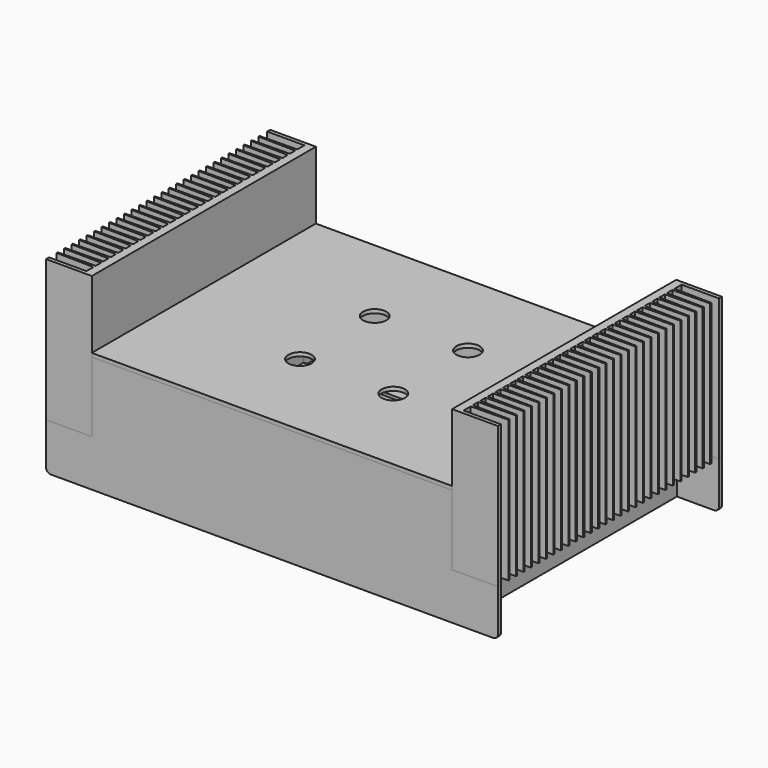
from build123d import *

# Parameters (mm, degrees)
F1_DEPTH  = 151.5
F3_ANGLE  = 90
F8_DEPTH  = 4
F10_W     = 386
F10_H     = 300
F11_DEPTH = 4
F12_W     = 386
F12_H     = 292
F12_R     = 2.25
F12_R_2   = 3.25
F13_DEPTH = 4
F14_W     = 292
F14_H     = 50
F15_DEPTH = 4
F17_DEPTH = 121
F20_R     = 12.5
F21_DEPTH = 4
F23_DEPTH = 354
F26_DEPTH = 354
F28_W     = 27.3
F28_H     = 31.4
F28_R     = 1.75
F28_W_2   = 22.4
F28_H_2   = 27.3
F29_DEPTH = 4
F31_DEPTH = 260
F34_DEPTH = 260
F37_DEPTH = 4


with BuildPart() as f1:
    # F0 (on Top) → F1 (new body)
    with BuildSketch(Plane.XY):
        Polygon((0.75, 49), (0, 49), (-0.75, 49), (-1.5, 9), (-8.5, 9), (-9.25, 49), (-10, 49), (-10.75, 49), (-11.5, 9), (-18.5, 9), (-19.25, 49), (-20, 49), (-20.75, 49), (-21.5, 9), (-28.5, 9), (-29.25, 49), (-30, 49), (-30.75, 49), (-31.5, 9), (-38.5, 9), (-39.25, 49), (-40, 49), (-40.75, 49), (-41.5, 9), (-48.5, 9), (-49.25, 49), (-50, 49), (-50.75, 49), (-51.5, 9), (-58.5, 9), (-59.25, 49), (-60, 49), (-60.75, 49), (-61.5, 9), (-68.5, 9), (-69.25, 49), (-70, 49), (-70.75, 49), (-71.5, 9), (-78.5, 9), (-79.25, 49), (-80, 49), (-80.75, 49), (-81.5, 9), (-88.5, 9), (-89.25, 49), (-90, 49), (-90.75, 49), (-91.5, 9), (-98.5, 9), (-99.25, 49), (-100, 49), (-100.75, 49), (-101.5, 9), (-108.5, 9), (-109.25, 49), (-110, 49), (-110.75, 49), (-111.5, 9), (-118.5, 9), (-119.25, 49), (-120, 49), (-120.75, 49), (-121.5, 9), (-128.5, 9), (-129.25, 49), (-130, 49), (-130.75, 49), (-131.5, 9), (-141, 9), (-141, 49), (-145, 49), (-145, 0), (155, 0), (155, 49), (151, 49), (151, 9), (141.5, 9), (140.75, 49), (140, 49), (139.25, 49), (138.5, 9), (131.5, 9), (130.75, 49), (130, 49), (129.25, 49), (128.5, 9), (121.5, 9), (120.75, 49), (120, 49), (119.25, 49), (118.5, 9), (111.5, 9), (110.75, 49), (110, 49), (109.25, 49), (108.5, 9), (101.5, 9), (100.75, 49), (100, 49), (99.25, 49), (98.5, 9), (91.5, 9), (90.75, 49), (90, 49), (89.25, 49), (88.5, 9), (81.5, 9), (80.75, 49), (80, 49), (79.25, 49), (78.5, 9), (71.5, 9), (70.75, 49), (70, 49), (69.25, 49), (68.5, 9), (61.5, 9), (60.75, 49), (60, 49), (59.25, 49), (58.5, 9), (51.5, 9), (50.75, 49), (50, 49), (49.25, 49), (48.5, 9), (41.5, 9), (40.75, 49), (40, 49), (39.25, 49), (38.5, 9), (31.5, 9), (30.75, 49), (30, 49), (29.25, 49), (28.5, 9), (21.5, 9), (20.75, 49), (20, 49), (19.25, 49), (18.5, 9), (11.5, 9), (10.75, 49), (10, 49), (9.25, 49), (8.5, 9), (1.5, 9), align=None)
    extrude(amount=F1_DEPTH)


with BuildPart() as f1_1:
    # F3: moved
    add(f1.part.rotate(Axis((0, 0, 36.7729254067), (0, 0, 1)), F3_ANGLE))


with BuildPart() as f1_2:
    # F4: moved
    add(f1_1.part.moved(Location((-193, 0, 0))))


with BuildPart() as f1_3:
    # F5: moved
    add(f1_2.part.moved(Location((0, -5, 0))))


with BuildPart() as f6_1:
    # F6: instance of F1
    add(f1_3.part.mirror(Plane.YZ))


with BuildPart() as f8:
    # F7 (on face) → F8 (new body)
    with BuildSketch(Plane.XZ.offset(150)):
        with BuildLine():
            Line((-193, 0), (-242, 0))
            Line((-242, 0), (-242, -8))
            Line((-242, -8), (-242, -45))
            ThreePointArc((-242, -45), (-240.5355339059, -48.5355339059), (-237, -50))
            Line((-237, -50), (-197, -50))
            Line((-197, -50), (0, -50))
            Line((0, -50), (197, -50))
            Line((197, -50), (237, -50))
            ThreePointArc((237, -50), (240.5355339059, -48.5355339059), (242, -45))
            Line((242, -45), (242, 0))
            Line((242, 0), (193, 0))
            Line((193, 0), (193, 75))
            Line((193, 75), (0, 75))
            Line((0, 75), (-193, 75))
            Line((-193, 75), (-193, 0))
        make_face()
    extrude(amount=-F8_DEPTH)


with BuildPart() as f9_1:
    # F9: instance of F8
    add(f8.part.mirror(Plane.XZ))

    # F28 (on face) → F29 (cut, through all)
    with BuildSketch(Plane(origin=(0, 150, 0), x_dir=(-1, 0, 0), z_dir=(0, 1, 0))):
        with Locations((-119.35, -12.3)):
            Rectangle(F28_W, F28_H)
        with Locations((-137.35, -12.3)):
            Circle(F28_R)
        with Locations((-101.35, -12.3)):
            Circle(F28_R)
        with Locations((-164.2, -12.3)):
            Rectangle(F28_W_2, F28_H_2)
    extrude(amount=-F29_DEPTH, mode=Mode.SUBTRACT)

    # F36 (on face) → F37 (cut, through all)
    with BuildSketch(Plane(origin=(0, 150, 0), x_dir=(-1, 0, 0), z_dir=(0, 1, 0))):
        with BuildLine():
            Line((20, 55), (-20, 55))
            ThreePointArc((-20, 55), (-23, 52), (-20, 49))
            Line((-20, 49), (20, 49))
            ThreePointArc((20, 49), (23, 52), (20, 55))
        make_face()
        with BuildLine():
            ThreePointArc((48, 55), (45, 52), (48, 49))
            Line((48, 49), (88, 49))
            ThreePointArc((88, 49), (91, 52), (88, 55))
            Line((88, 55), (48, 55))
        make_face()
        with BuildLine():
            ThreePointArc((116, 55), (113, 52), (116, 49))
            Line((116, 49), (156, 49))
            ThreePointArc((156, 49), (159, 52), (156, 55))
            Line((156, 55), (116, 55))
        make_face()
        with BuildLine():
            ThreePointArc((-116, 49), (-113, 52), (-116, 55))
            Line((-116, 55), (-156, 55))
            ThreePointArc((-156, 55), (-159, 52), (-156, 49))
            Line((-156, 49), (-116, 49))
        make_face()
        with BuildLine():
            Line((-48, 55), (-88, 55))
            ThreePointArc((-88, 55), (-91, 52), (-88, 49))
            Line((-88, 49), (-48, 49))
            ThreePointArc((-48, 49), (-45, 52), (-48, 55))
        make_face()
    extrude(amount=-F37_DEPTH, mode=Mode.SUBTRACT)


with BuildPart() as f11:
    # F10 (on face) → F11 (new body)
    with BuildSketch(Plane.XY.offset(75)):
        Rectangle(F10_W, F10_H)
    extrude(amount=F11_DEPTH)

    # F20 (on face) → F21 (cut, through all)
    with BuildSketch(Plane.XY.offset(79)):
        with Locations((-50, 50)):
            Circle(F20_R)
        with Locations((50, 50)):
            Circle(F20_R)
        with Locations((50, -50)):
            Circle(F20_R)
        with Locations((-50, -50)):
            Circle(F20_R)
    extrude(amount=-F21_DEPTH, mode=Mode.SUBTRACT)


with BuildPart() as f13:
    # F12 (on face) → F13 (new body)
    with BuildSketch(Plane(origin=(0, 0, -50), x_dir=(1, 0, 0), z_dir=(0, 0, -1))):
        Rectangle(F12_W, F12_H)
        with Locations((-168, -121)):
            Circle(F12_R, mode=Mode.SUBTRACT)
        with Locations((0, -82.25)):
            Circle(F12_R, mode=Mode.SUBTRACT)
        with Locations((168, -121)):
            Circle(F12_R, mode=Mode.SUBTRACT)
        with Locations((-80, 0)):
            Circle(F12_R_2, mode=Mode.SUBTRACT)
        with Locations((-168, 121)):
            Circle(F12_R, mode=Mode.SUBTRACT)
        with Locations((80, 0)):
            Circle(F12_R_2, mode=Mode.SUBTRACT)
        with Locations((168, 121)):
            Circle(F12_R, mode=Mode.SUBTRACT)
    extrude(amount=-F13_DEPTH)


with BuildPart() as f15:
    # F14 (on face) → F15 (new body)
    with BuildSketch(Plane.YZ.offset(-193)):
        with Locations((0, -25)):
            Rectangle(F14_W, F14_H)
    extrude(amount=-F15_DEPTH)


with BuildPart() as f17:
    # F16 (on face) → F17 (new body, through all)
    with BuildSketch(Plane(origin=(0, 0, 75), x_dir=(1, 0, 0), z_dir=(0, 0, -1))):
        Polygon((-177, 143), (-177, 146), (-193, 146), (-193, 130), (-190, 130), (-190, 143), align=None)
    extrude(amount=F17_DEPTH)


with BuildPart() as f18_1:
    # F18: instance of F17
    add(f17.part.mirror(Plane.XZ))


with BuildPart() as f19_1:
    # F19: instance of F18_1
    add(f18_1.part.mirror(Plane.YZ))


with BuildPart() as f19_2:
    # F19: instance of F17
    add(f17.part.mirror(Plane.YZ))


with BuildPart() as f23:
    # F22 (on face) → F23 (new body, through all)
    with BuildSketch(Plane.YZ.offset(-177)):
        Polygon((-146, 75), (-146, 59), (-143, 59), (-143, 72), (-130, 72), (-130, 75), align=None)
    extrude(amount=F23_DEPTH)


with BuildPart() as f24_1:
    # F24: instance of F23
    add(f23.part.mirror(Plane.XZ))


with BuildPart() as f26:
    # F25 (on face) → F26 (new body, through all)
    with BuildSketch(Plane.YZ.offset(-177)):
        Polygon((-146, -30), (-146, -46), (-130, -46), (-130, -43), (-143, -43), (-143, -30), align=None)
    extrude(amount=F26_DEPTH)


with BuildPart() as f27_1:
    # F27: instance of F26
    add(f26.part.mirror(Plane.XZ))


with BuildPart() as f31:
    # F30 (on face) → F31 (new body, through all)
    with BuildSketch(Plane(origin=(0, -130, 0), x_dir=(-1, 0, 0), z_dir=(0, 1, 0))):
        Polygon((193, 59), (193, 75), (177, 75), (177, 72), (190, 72), (190, 59), align=None)
    extrude(amount=F31_DEPTH)


with BuildPart() as f32_1:
    # F32: instance of F31
    add(f31.part.mirror(Plane.YZ))


with BuildPart() as f34:
    # F33 (on face) → F34 (new body, through all)
    with BuildSketch(Plane(origin=(0, -130, 0), x_dir=(-1, 0, 0), z_dir=(0, 1, 0))):
        Polygon((177, -46), (193, -46), (193, -30), (190, -30), (190, -43), (177, -43), align=None)
    extrude(amount=F34_DEPTH)


with BuildPart() as f35_1:
    # F35: instance of F34
    add(f34.part.mirror(Plane.YZ))


with BuildPart() as f38_1:
    # F38: instance of F15
    add(f15.part.mirror(Plane.YZ))


solid = Compound([f1_3.part, f6_1.part, f8.part, f9_1.part, f11.part, f13.part, f15.part, f17.part, f18_1.part, f19_1.part, f19_2.part, f23.part, f24_1.part, f26.part, f27_1.part, f31.part, f32_1.part, f34.part, f35_1.part, f38_1.part])
